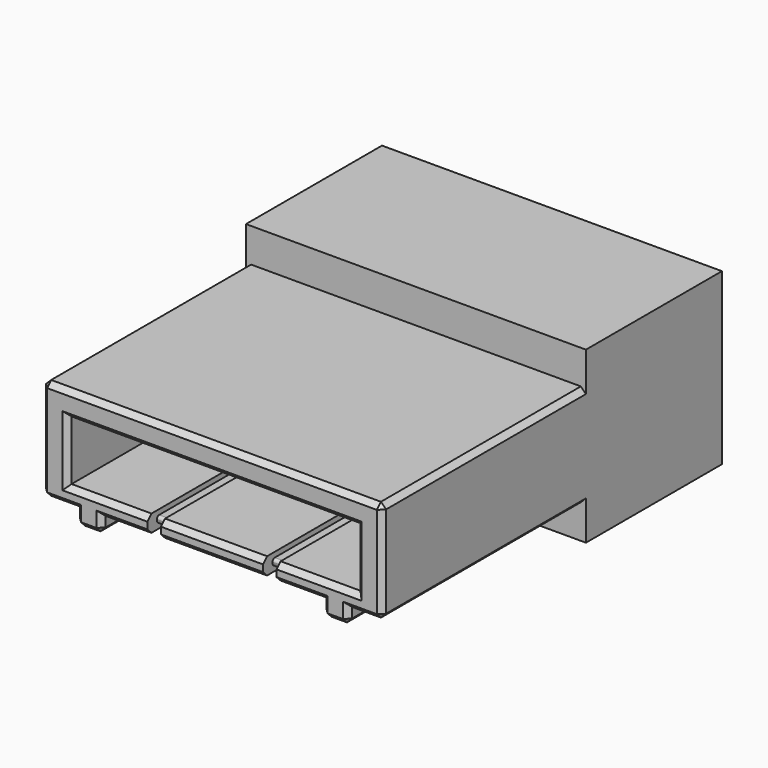
from build123d import *

# Parameters (mm, degrees)
SKETCH090_W     = 20
SKETCH090_H     = 10
PAD049_DEPTH    = 10
SKETCH091_W     = 20
SKETCH091_H     = 6
PAD050_DEPTH    = 15
SKETCH092_W     = 1.5
SKETCH092_H     = 15
PAD051_DEPTH    = 0.9
SKETCH093_W     = 17
SKETCH093_H     = 3.5
POCKET033_DEPTH = 16
SKETCH094_W     = 0.8
SKETCH094_H     = 0.3
POCKET034_DEPTH = 20
SKETCH095_W     = 0.8
SKETCH095_H     = 0.3
POCKET035_DEPTH = 20
SKETCH006_W     = 18
SKETCH006_H     = 8
POCKET003_DEPTH = 8
SKETCH096_W     = 0.8
SKETCH096_H     = 0.7
POCKET036_DEPTH = 2
SKETCH097_W     = 0.8
SKETCH097_H     = 0.5
POCKET037_DEPTH = 5
FILLET_R        = 0.17
CHAMFER054_SIZE = 0.3
CHAMFER007_SIZE = 0.3
FILLET001_R     = 0.15


with BuildPart() as part:
    # Sketch090 → Pad049 (new body)
    with BuildSketch(Plane.XZ):
        Rectangle(SKETCH090_W, SKETCH090_H)
    extrude(amount=-PAD049_DEPTH)

    # Sketch091 (on Face5 of Pad049) → Pad050 (join)
    with BuildSketch(Plane.XZ):
        Rectangle(SKETCH091_W, SKETCH091_H)
    extrude(amount=PAD050_DEPTH)

    # Sketch092 (on Face7 of Pad050) → Pad051 (join)
    with BuildSketch(Plane(origin=(0, 0, -3), x_dir=(1, 0, 0), z_dir=(0, 0, -1))):
        with Locations((-7.25, 7.5)):
            Rectangle(SKETCH092_W, SKETCH092_H)
        with Locations((7.25, 7.5)):
            Rectangle(SKETCH092_W, SKETCH092_H)
    extrude(amount=PAD051_DEPTH)

    # Sketch093 (on Face18 of Pad051) → Pocket033 (cut)
    with BuildSketch(Plane.XZ.offset(15)):
        with Locations((0, -0.25)):
            Rectangle(SKETCH093_W, SKETCH093_H)
    extrude(amount=-POCKET033_DEPTH, mode=Mode.SUBTRACT)

    # Sketch094 (on Face9 of Pocket033) → Pocket034 (cut)
    with BuildSketch(Plane.XZ.offset(15)):
        with Locations((-3.4, -2.15)):
            Rectangle(SKETCH094_W, SKETCH094_H)
        with Locations((3.4, -2.15)):
            Rectangle(SKETCH094_W, SKETCH094_H)
    extrude(amount=-POCKET034_DEPTH, mode=Mode.SUBTRACT)

    # Sketch095 (on Face9 of Pocket034) → Pocket035 (cut)
    with BuildSketch(Plane.XZ.offset(15)):
        with Locations((-3.4, -2.85)):
            Rectangle(SKETCH095_W, SKETCH095_H)
        with Locations((3.4, -2.85)):
            Rectangle(SKETCH095_W, SKETCH095_H)
    extrude(amount=-POCKET035_DEPTH, mode=Mode.SUBTRACT)

    # Sketch006 (on Face5 of Pocket035) → Pocket003 (cut)
    with BuildSketch(Plane(origin=(0, 10, 0), x_dir=(1, 0, 0), z_dir=(0, 1, 0))):
        Rectangle(SKETCH006_W, SKETCH006_H)
    extrude(amount=-POCKET003_DEPTH, mode=Mode.SUBTRACT)

    # Sketch096 (on Face21 of Pocket003) → Pocket036 (cut)
    with BuildSketch(Plane(origin=(0, 0, -3), x_dir=(1, 0, 0), z_dir=(0, 0, -1))):
        with Locations((-3.4, 14.65)):
            Rectangle(SKETCH096_W, SKETCH096_H)
        with Locations((3.4, 14.65)):
            Rectangle(SKETCH096_W, SKETCH096_H)
    extrude(amount=-POCKET036_DEPTH, mode=Mode.SUBTRACT)

    # Sketch097 (on Face36 of Pocket036) → Pocket037 (cut)
    with BuildSketch(Plane(origin=(0, 2, 0), x_dir=(1, 0, 0), z_dir=(0, 1, 0))):
        with Locations((-3.4, 2.95)):
            Rectangle(SKETCH097_W, SKETCH097_H)
        with Locations((-3.4, 2.05)):
            Rectangle(SKETCH097_W, SKETCH097_H)
        with Locations((3.4, 2.95)):
            Rectangle(SKETCH097_W, SKETCH097_H)
        with Locations((3.4, 2.05)):
            Rectangle(SKETCH097_W, SKETCH097_H)
    extrude(amount=-POCKET037_DEPTH, mode=Mode.SUBTRACT)

    # Fillet
    fillet_edges = [part.edges().sort_by_distance(p)[0] for p in [
        (-3.4, -14.3, -2.3),
        (-3.4, -14.3, -2.7),
        (3.4, -14.3, -2.3),
        (3.4, -14.3, -2.7),
    ]]
    fillet(fillet_edges, radius=FILLET_R)

    # Chamfer054
    chamfer054_edges = [part.edges().sort_by_distance(p)[0] for p in [
        (-9, -15, -3),
        (-10, -15, 0),
        (0, -15, 3),
        (10, -15, 0),
        (9, -15, -3),
        (8, -15, -3.45),
        (7.25, -15, -3.9),
        (6.5, -15, -3.45),
        (5.15, -15, -3),
        (0, -15, -3),
        (-5.15, -15, -3),
        (-7.25, -15, -3.9),
        (-8, -15, -3.45),
        (-6.5, -15, -3.45),
        (-6.15, -15, -2),
        (0, -15, -2),
        (6.15, -15, -2),
        (8.5, -15, -0.25),
        (0, -15, 1.5),
        (-8.5, -15, -0.25),
        (10, -7.5, 3),
        (10, -7.5, -3),
        (-10, -7.5, -3),
        (-10, -7.5, 3),
        (8, -7.5, -3.9),
        (6.5, -7.5, -3.9),
        (-6.5, -7.5, -3.9),
        (-8, -7.5, -3.9),
    ]]
    chamfer(chamfer054_edges, length=CHAMFER054_SIZE)

    # Chamfer007
    chamfer007_edges = [part.edges().sort_by_distance(p)[0] for p in [
        (0, 10, -4),
        (-9, 10, 0),
        (0, 10, 4),
        (9, 10, 0),
    ]]
    chamfer(chamfer007_edges, length=CHAMFER007_SIZE)

    # Fillet001
    fillet001_edges = [part.edges().sort_by_distance(p)[0] for p in [
        (3.4, 2, -2.3),
        (3.8, 2, -2.05),
        (3.4, 2, -1.8),
        (3, 2, -2.05),
        (3.4, 2, -2.7),
        (3.8, 2, -2.95),
        (3.4, 2, -3.2),
        (3, 2, -2.95),
        (-3.4, 2, -1.8),
        (-3.8, 2, -2.05),
        (-3.4, 2, -2.3),
        (-3, 2, -2.05),
        (-3.4, 2, -2.7),
        (-3.8, 2, -2.95),
        (-3.4, 2, -3.2),
        (-3, 2, -2.95),
    ]]
    fillet(fillet001_edges, radius=FILLET001_R)


with BuildPart() as part_1:
    # Body017 placement: moved
    add(part.part.moved(Location((0, -25, -131.5))))


solid = part_1.part
